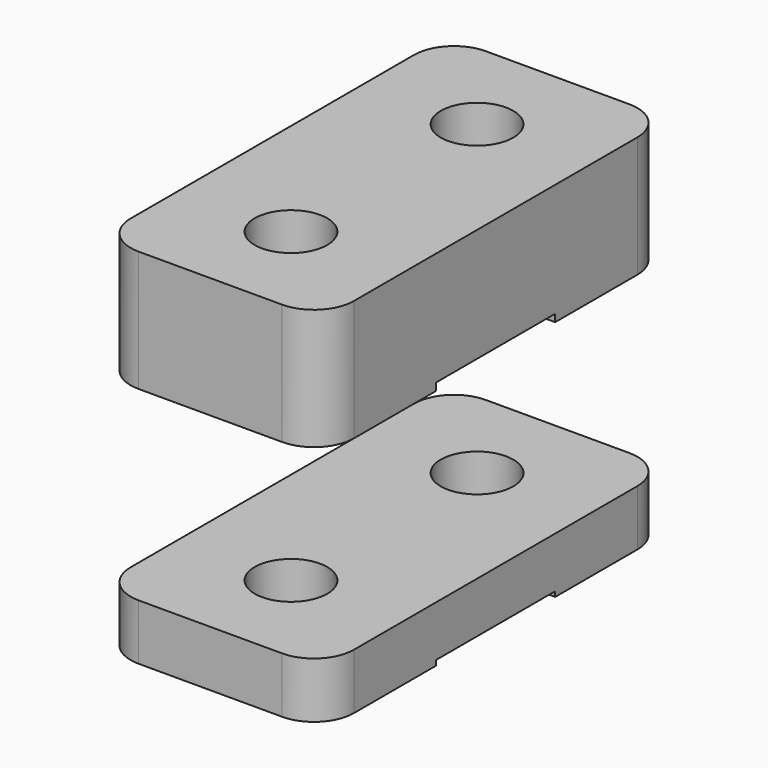
from build123d import *

# Parameters (mm, degrees)
F0_R          = 1.95
F1_DEPTH      = 6.5
F4_R          = 1.95
F5_DEPTH      = 3
F7_DEPTH      = 4
F7_DEPTH_BACK = 4
F8_W          = 12
F8_H          = 4
F9_DEPTH      = 0.4


with BuildPart() as f1:
    # F0 (on Top) → F1 (new body)
    with BuildSketch(Plane.XY):
        with BuildLine():
            Line((3.854228543, 11.6629619151), (-3.854228543, 11.6629619151))
            ThreePointArc((-3.854228543, 11.6629619151), (-5.3715180911, 11.0344800063), (-6, 9.5171904582))
            Line((-6, 9.5171904582), (-6, 0))
            Line((-6, 0), (6, 0))
            Line((6, 0), (6, 9.5171904582))
            ThreePointArc((6, 9.5171904582), (5.3715180911, 11.0344800063), (3.854228543, 11.6629619151))
        make_face()
        with Locations((0, 6.25)):
            Circle(F0_R, mode=Mode.SUBTRACT)
    extrude(amount=F1_DEPTH)

    # F2: F1 across plane


with BuildPart() as f1_1:
    add(f1.part)
    add(f1.part.mirror(Plane.XZ))

    # F8 (on Top) → F9 (cut)
    with BuildSketch(Plane.XY):
        with Locations((0, 2)):
            Rectangle(F8_W, F8_H)
        with Locations((0, -2)):
            Rectangle(F8_W, F8_H)
    extrude(amount=F9_DEPTH, mode=Mode.SUBTRACT)


with BuildPart() as f5:
    # F4 (on offset) → F5 (new body)
    with BuildSketch(Plane.XY.offset(-10)):
        with BuildLine():
            ThreePointArc((-3.854228543, 11.6629619151), (-5.3715180911, 11.0344800063), (-6, 9.5171904582))
            Line((-6, 9.5171904582), (-6, -9.5171904582))
            ThreePointArc((-6, -9.5171904582), (-5.3715180911, -11.0344800063), (-3.854228543, -11.6629619151))
            Line((-3.854228543, -11.6629619151), (3.854228543, -11.6629619151))
            ThreePointArc((3.854228543, -11.6629619151), (5.3715180911, -11.0344800063), (6, -9.5171904582))
            Line((6, -9.5171904582), (6, 9.5171904582))
            ThreePointArc((6, 9.5171904582), (5.3715180911, 11.0344800063), (3.854228543, 11.6629619151))
            Line((3.854228543, 11.6629619151), (-3.854228543, 11.6629619151))
        make_face()
        with Locations((0, -6.25)):
            Circle(F4_R, mode=Mode.SUBTRACT)
        with Locations((0, 6.25)):
            Circle(F4_R, mode=Mode.SUBTRACT)
    extrude(amount=-F5_DEPTH)

    # F6 (on Front) → F7 (cut, two sides)
    with BuildSketch(Plane.XZ) as f7_sk:
        Polygon((-6, -12.7287376672), (-6, -13), (-4, -13), (-4, -12.7287376672), (-5, -11.55), align=None)
        Polygon((-4, -12.7287376672), (-4, -13), (-2, -13), (-2, -12.7287376672), (-3, -11.55), align=None)
        Polygon((-2, -12.7287376672), (-2, -13), (0, -13), (0, -12.7287376672), (-1, -11.55), align=None)
        Polygon((0, -12.7287376672), (0, -13), (2, -13), (2, -12.7287376672), (1, -11.55), align=None)
        Polygon((2, -12.7287376672), (2, -13), (4, -13), (4, -12.7287376672), (3, -11.55), align=None)
        Polygon((4, -12.7287376672), (4, -13), (6, -13), (6, -12.7287376672), (5, -11.55), align=None)
    extrude(amount=-F7_DEPTH, mode=Mode.SUBTRACT)
    extrude(f7_sk.sketch, amount=F7_DEPTH_BACK, mode=Mode.SUBTRACT)


solid = Compound([f1_1.part, f5.part])
